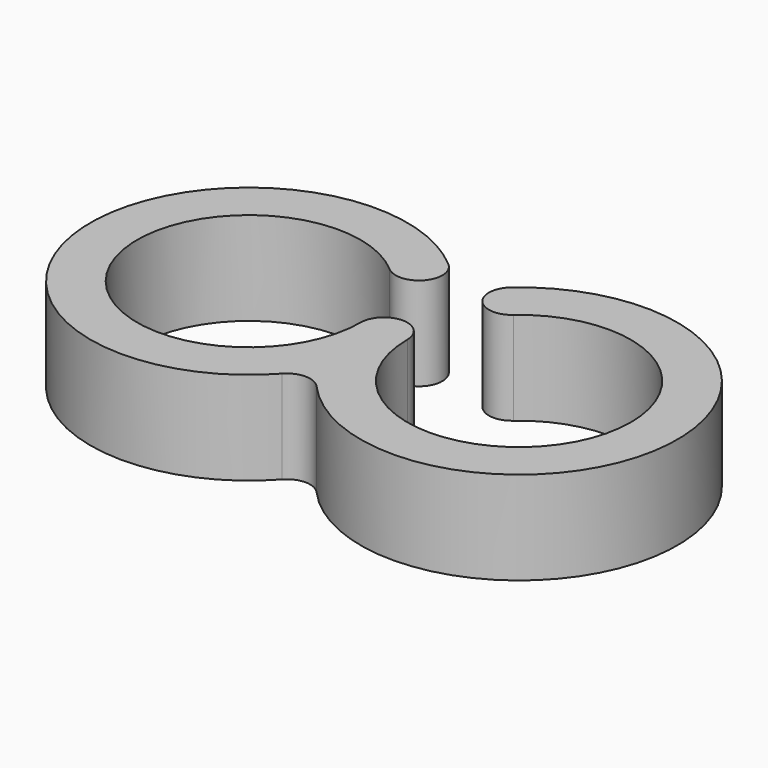
from build123d import *

# Parameters (mm, degrees)
F1_DEPTH = 6


with BuildPart() as f1:
    # F0 (on Top) → F1 (new body)
    with BuildSketch(Plane.XY):
        with BuildLine():
            ThreePointArc((3.982759, 5.439452), (11.689637, 6.549967), (15.9, 0))
            ThreePointArc((15.9, 0), (8.7, -7.2), (1.5, 0))
            ThreePointArc((1.5, 0), (0, 1.5), (-1.5, 0))
            ThreePointArc((-1.5, 0), (-15.249967, -2.989637), (-3.982759, 5.439452))
            ThreePointArc((-3.982759, 5.439452), (-1.866781, 5.589912), (-2.017241, 7.70589))
            ThreePointArc((-2.017241, 7.70589), (-18.880398, -0.632058), (-1.115385, -6.820089))
            ThreePointArc((-1.115385, -6.820089), (0, -6.323043), (1.115385, -6.820089))
            ThreePointArc((1.115385, -6.820089), (18.880398, -0.632058), (2.017241, 7.70589))
            ThreePointArc((2.017241, 7.70589), (1.866781, 5.589912), (3.982759, 5.439452))
        make_face()
    extrude(amount=F1_DEPTH)


solid = f1.part
